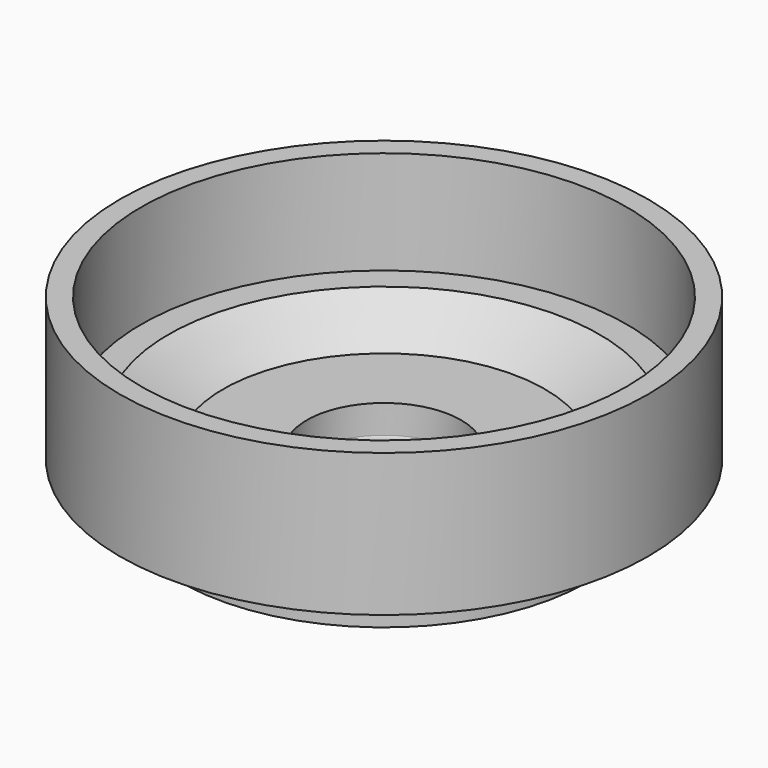
from build123d import *

# Parameters (mm, degrees)
SKETCH001_R = 1.75
SKETCH002_W = 12
SKETCH002_H = 1


with BuildPart() as part:
    # Sketch (on XZ_Plane of Origin) → Revolution (revolve)
    with BuildSketch(Plane.XZ):
        Polygon((12.7, 0), (18, 0), (18, 7), (27.5, 7), (33.5, 2.5), (33.5, 9.5), (43.5, 9.5), (43.5, 33), (40, 33), (40, 16), (35.5, 16), (26.5, 11), (12.7, 11), align=None)
    revolve(axis=Axis((0, 0, 0), (0, 0, 1)))

    # Sketch001 (on XZ_Plane of Origin) → Revolution001 (revolve)
    with BuildSketch(Plane.XZ):
        with Locations((14.25, 5.5)):
            Circle(SKETCH001_R)
    revolve(axis=Axis((0, 0, 0), (0, 0, 1)))

    # Sketch002 (on XZ_Plane of Origin) → Groove (revolve, cut)
    with BuildSketch(Plane.XZ):
        with Locations((21, 9)):
            Rectangle(SKETCH002_W, SKETCH002_H)
    revolve(axis=Axis((0, 0, 0), (0, 0, 1)), mode=Mode.SUBTRACT)


solid = part.part
